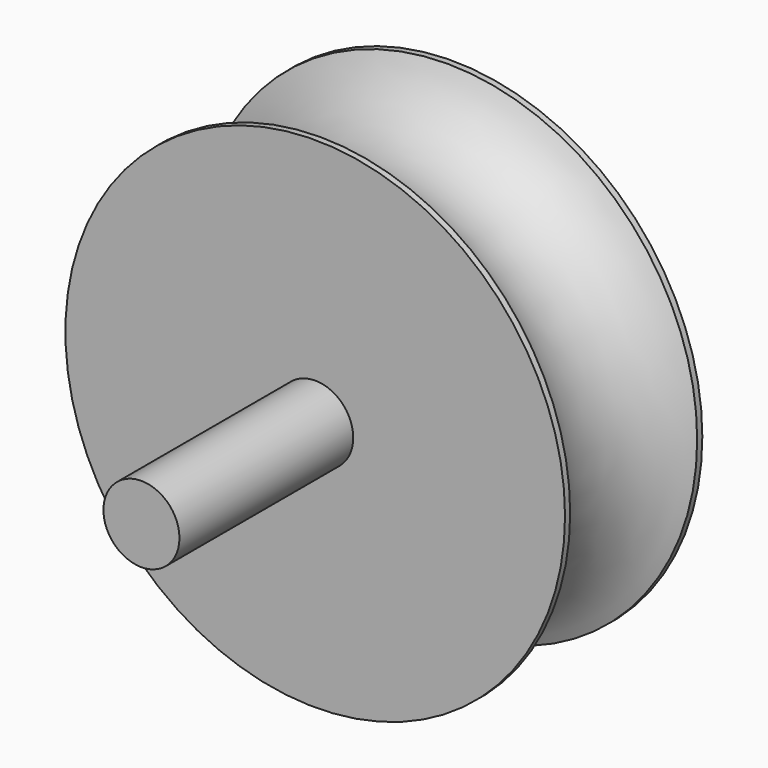
from build123d import *

# Parameters (mm, degrees)
F0_R     = 11.5
F1_DEPTH = 7.9
F2_R     = 1.75
F3_DEPTH = 10
F4_R     = 3.95


with BuildPart() as f1:
    # F0 (on Front) → F1 (new body)
    with BuildSketch(Plane.XZ):
        Circle(F0_R)
    extrude(amount=F1_DEPTH)

    # F2 (on face) → F3 (join)
    with BuildSketch(Plane.XZ.offset(7.9)):
        Circle(F2_R)
    extrude(amount=F3_DEPTH)

    # F4 (on Right) → F5 (revolve, cut)
    with BuildSketch(Plane.YZ):
        with Locations((-3.95, 13)):
            Circle(F4_R)
    revolve(axis=Axis((0, -5.14938, 0), (0, 1, 0)), mode=Mode.SUBTRACT)


solid = f1.part
